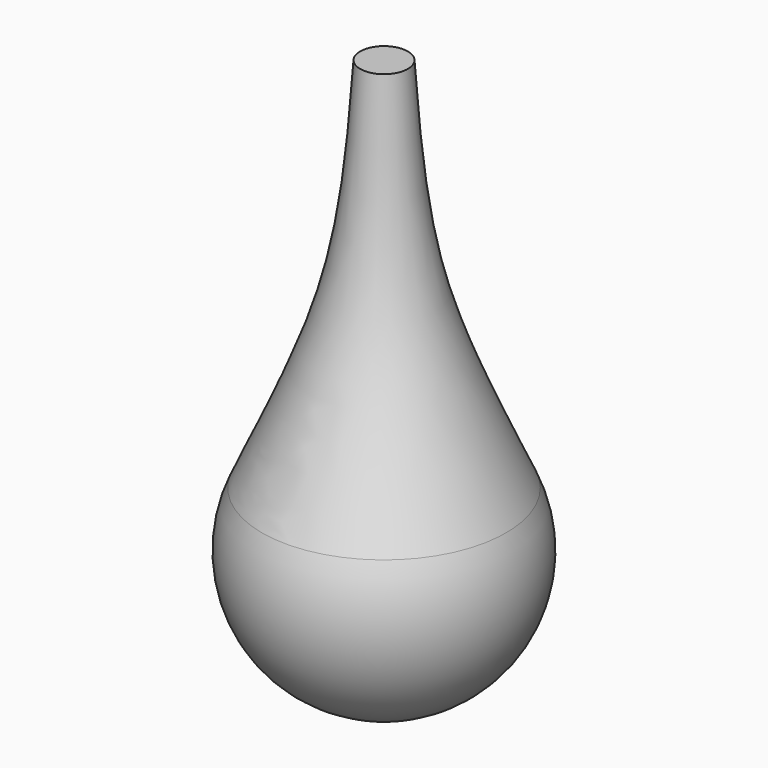
from build123d import *


with BuildPart() as f1:
    # F0 (on Front) → F1 (revolve)
    with BuildSketch(Plane.XZ):
        with BuildLine():
            add(Edge.make_bspline(
                [(-4, 72.5), (-4.7270653534, 61.7050294605), (-6.1392004449, 39.8750592979), (-15.8191093442, 19.638431634), (-20.5058294478, 9.2607212817)],
                knots=[0, 0, 0, 0, 0.4951282406, 1, 1, 1, 1], degree=3))
            ThreePointArc((-20.5058294478, 9.2607212817), (-18.9025954413, -12.2041749242), (0, -22.5))
            Line((0, -22.5), (0, 72.5))
            Line((0, 72.5), (-4, 72.5))
        make_face()
        with BuildLine():
            add(Edge.make_bspline(
                [(-4, 72.5), (-4.7270653534, 61.7050294605), (-6.1392004449, 39.8750592979), (-15.8191093442, 19.638431634), (-20.5058294478, 9.2607212817)],
                knots=[0, 0, 0, 0, 0.4951282406, 1, 1, 1, 1], degree=3))
            ThreePointArc((-20.5058294478, 9.2607212817), (-18.9025954413, -12.2041749242), (0, -22.5))
            Line((0, -22.5), (0, 72.5))
            Line((0, 72.5), (-4, 72.5))
        make_face()
    revolve(axis=Axis((0, 0, 25), (0, 0, -1)))


solid = f1.part
